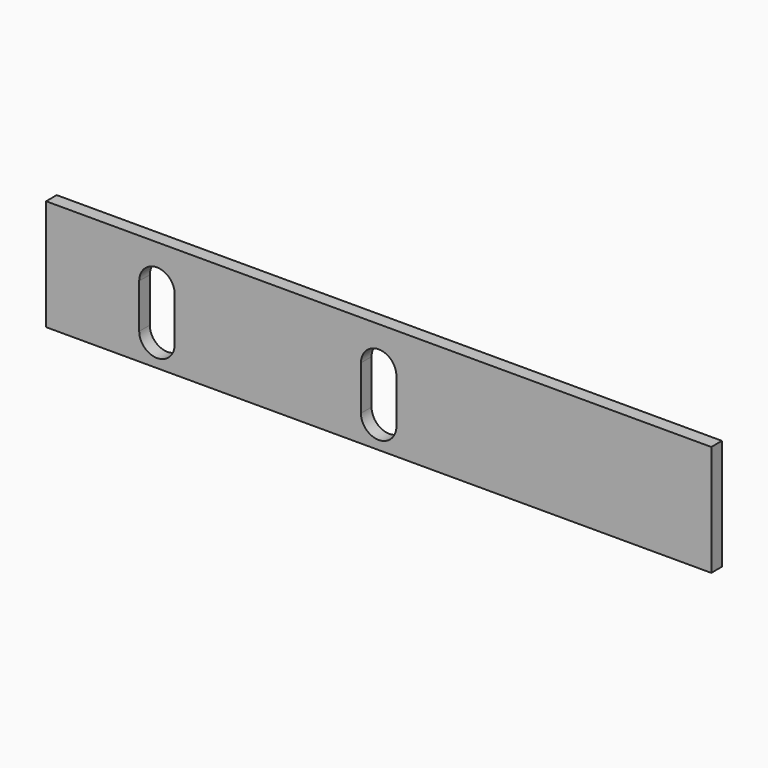
from build123d import *

# Parameters (mm, degrees)
F0_W     = 150
F0_H     = 25
F1_DEPTH = 3
F3_DEPTH = 25


with BuildPart() as f1:
    # F0 (on Front) → F1 (new body)
    with BuildSketch(Plane.XZ):
        with Locations((0.018766, -67.063086)):
            Rectangle(F0_W, F0_H)
    extrude(amount=F1_DEPTH)

    # F2 (on face) → F3 (cut)
    with BuildSketch(Plane.XZ.offset(3)):
        with BuildLine():
            Line((-45.981234, -73.563086), (-45.981234, -63.563086))
            ThreePointArc((-45.981234, -63.563086), (-49.981234, -59.563086), (-53.981234, -63.563086))
            Line((-53.981234, -63.563086), (-53.981234, -73.563086))
            ThreePointArc((-53.981234, -73.563086), (-49.981234, -77.563086), (-45.981234, -73.563086))
        make_face()
        with BuildLine():
            Line((4.018766, -73.563086), (4.018766, -63.563086))
            ThreePointArc((4.018766, -63.563086), (0.018766, -59.563086), (-3.981234, -63.563086))
            Line((-3.981234, -63.563086), (-3.981234, -73.563086))
            ThreePointArc((-3.981234, -73.563086), (0.018766, -77.563086), (4.018766, -73.563086))
        make_face()
    extrude(amount=-F3_DEPTH, mode=Mode.SUBTRACT)


solid = f1.part
